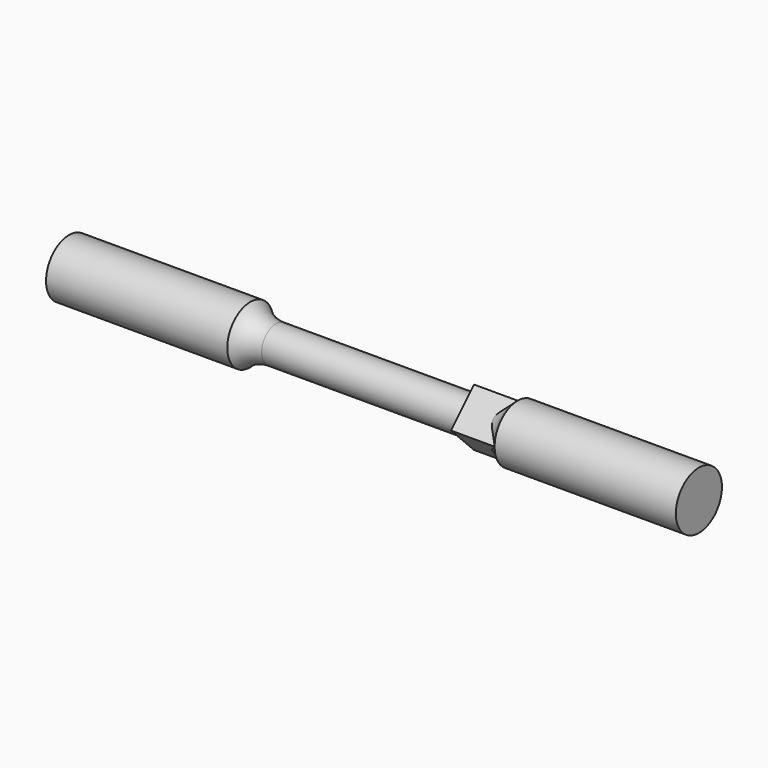
from build123d import *

# Parameters (mm, degrees)
F0_W     = 24
F0_H     = 2
F3_DEPTH = 25


with BuildPart() as f1:
    # F0 (on Top) → F1 (revolve)
    with BuildSketch(Plane.XY):
        with BuildLine():
            Line((-14.856571, 3.2), (-35, 3.2))
            Line((-35, 3.2), (-35, 0))
            Line((-35, 0), (-12, 0))
            Line((-12, 0), (-12, 2))
            ThreePointArc((-12, 2), (-13.549193, 2.312182), (-14.856571, 3.2))
        make_face()
        with Locations((0, 1)):
            Rectangle(F0_W, F0_H)
        with BuildLine():
            ThreePointArc((14.856571, 3.2), (13.549193, 2.312182), (12, 2))
            Line((12, 2), (12, 0))
            Line((12, 0), (35, 0))
            Line((35, 0), (35, 3.2))
            Line((35, 3.2), (14.856571, 3.2))
        make_face()
    revolve(axis=Axis((0, 0, 0), (1, 0, 0)))

    # F2 (on face) → F3 (join)
    with BuildSketch(Plane.YZ.offset(35)):
        Polygon((0, -3.2), (3.2, 0), (0, 3.2), (-3.2, 0), align=None)
    extrude(amount=-F3_DEPTH)


solid = f1.part
